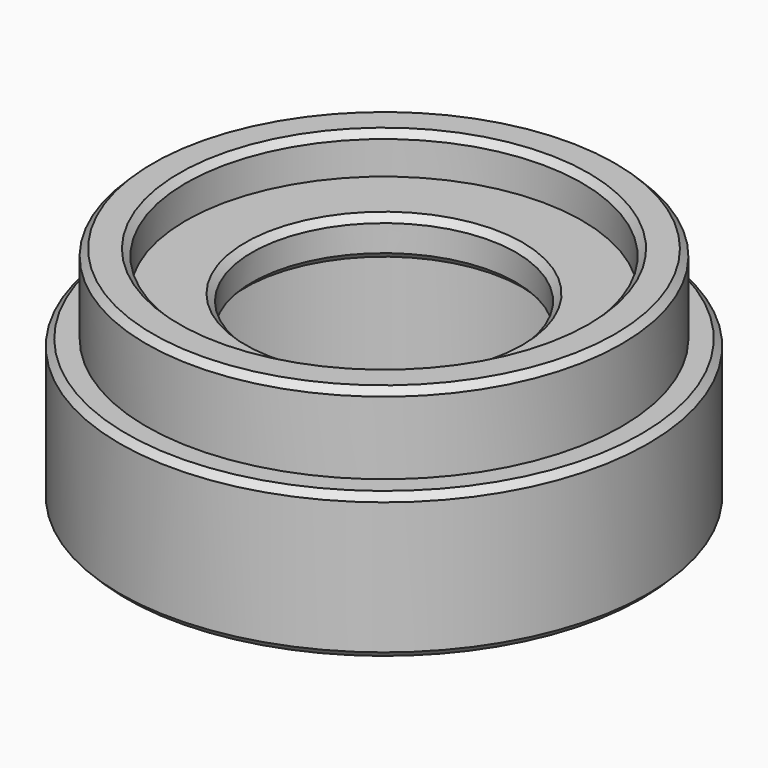
from build123d import *

# Parameters (mm, degrees)
F0_R     = 20
F0_R_2   = 15
F1_DEPTH = 11
F2_R     = 18
F2_R_2   = 15
F2_R_3   = 10
F3_DEPTH = 3
F4_R     = 18
F4_R_2   = 15
F5_DEPTH = 3
F6_SIZE  = 0.5
F7_SIZE  = 0.5


with BuildPart() as f1:
    # F0 (on Top) → F1 (new body)
    with BuildSketch(Plane.XY):
        Circle(F0_R)
        Circle(F0_R_2, mode=Mode.SUBTRACT)
    extrude(amount=F1_DEPTH)

    # F2 (on face) → F3 (join)
    with BuildSketch(Plane.XY.offset(11)):
        Circle(F2_R)
        Circle(F2_R_2, mode=Mode.SUBTRACT)
        Circle(F2_R_2)
        Circle(F2_R_3, mode=Mode.SUBTRACT)
    extrude(amount=F3_DEPTH)

    # F4 (on face) → F5 (join)
    with BuildSketch(Plane.XY.offset(14)):
        Circle(F4_R)
        Circle(F4_R_2, mode=Mode.SUBTRACT)
    extrude(amount=F5_DEPTH)

    # F6
    f6_edges = [f1.edges().sort_by_distance(p)[0] for p in [
        (-20, 0, 0),
        (-15, 0, 0),
        (-20, 0, 11),
        (-18, 0, 17),
        (-15, 0, 17),
        (-10, 0, 14),
    ]]
    chamfer(f6_edges, length=F6_SIZE)

    # F7
    f7_edges = [f1.edges().sort_by_distance(p)[0] for p in [
        (-10, 0, 11),
    ]]
    chamfer(f7_edges, length=F7_SIZE)


solid = f1.part
